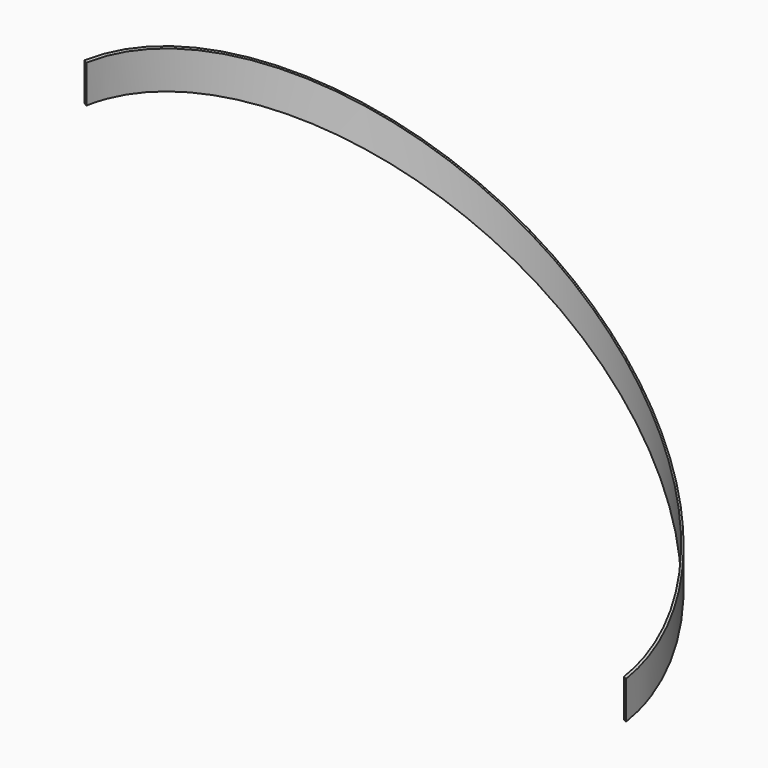
from build123d import *

# Parameters (mm, degrees)
F1_DEPTH = 1752.6
F3_DEPTH = 882.651
F6_DEPTH = 882.651
F7_DEPTH = 1525.507545


with BuildPart() as f1:
    # F0 (on Top) → F1 (new body)
    with BuildSketch(Plane.XY):
        with BuildLine():
            Line((879.29125, 0), (879.29125, 76.928016))
            ThreePointArc((879.29125, 76.928016), (0, 882.65), (-879.29125, 76.928016))
            Line((-879.29125, 76.928016), (-879.29125, 0))
            Line((-879.29125, 0), (879.29125, 0))
        make_face()
        with BuildLine():
            ThreePointArc((-872.965414, 76.374577), (0, 876.3), (872.965414, 76.374577))
            Line((872.965414, 76.374577), (872.965414, 21.737557))
            Line((872.965414, 21.737557), (-872.965414, 21.737557))
            Line((-872.965414, 21.737557), (-872.965414, 76.374577))
        make_face(mode=Mode.SUBTRACT)
    extrude(amount=F1_DEPTH)

    # F2 (on face) → F3 (cut, through all)
    with BuildSketch(Plane.XZ):
        Polygon((-914.4, 1821.486473), (-914.4, 1549.4), (914.4, 304.8), (994.86959, 1821.486473), align=None)
    extrude(amount=-F3_DEPTH, mode=Mode.SUBTRACT)

    # F4 (on face) → F6 (cut, through all)
    with BuildSketch(Plane.XZ):
        Polygon((857.237397, 220.805971), (-914.4, 1426.503644), (-914.4, 0), (914.4, 0), (914.4, 181.903644), align=None)
    extrude(amount=-F6_DEPTH, mode=Mode.SUBTRACT)

    # F5 (on Top) → F7 (cut, through all)
    with BuildSketch(Plane.XY):
        Polygon((-1011.60562, 79.864599), (-1011.60562, 0), (1011.60562, 0), (1018.673658, 79.864599), align=None)
    extrude(amount=F7_DEPTH, mode=Mode.SUBTRACT)


solid = f1.part
